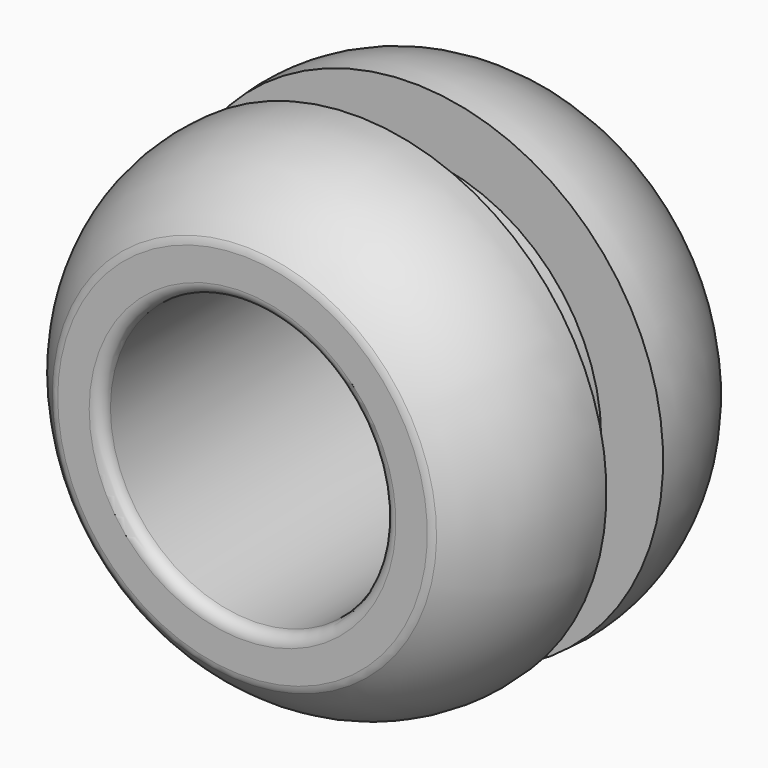
from build123d import *

# Parameters (mm, degrees)
F2_R     = 2.4
F3_DEPTH = 6
F4_R     = 0.2


with BuildPart() as f1:
    # F0 (on Top) → F1 (revolve)
    with BuildSketch(Plane.XY):
        with BuildLine():
            Line((0, 0), (0, 3))
            Line((0, 3), (-3.2, 3))
            ThreePointArc((-3.2, 3), (-4.0457283791, 1.9403186658), (-4.25, 0.6))
            Line((-4.25, 0.6), (-3.2, 0.6))
            Line((-3.2, 0.6), (-3.2, 0))
            Line((-3.2, 0), (0, 0))
        make_face()
        with BuildLine():
            Line((0, -3), (0, 0))
            Line((0, 0), (-3.2, 0))
            Line((-3.2, 0), (-3.2, -0.6))
            Line((-3.2, -0.6), (-4.25, -0.6))
            ThreePointArc((-4.25, -0.6), (-4.0457283791, -1.9403186658), (-3.2, -3))
            Line((-3.2, -3), (0, -3))
        make_face()
    revolve(axis=Axis((0, 0.3745369613, 0), (0, -1, 0)))

    # F2 (on face) → F3 (cut, through all)
    with BuildSketch(Plane(origin=(0, 3, 0), x_dir=(-1, 0, 0), z_dir=(0, 1, 0))):
        Circle(F2_R)
    extrude(amount=-F3_DEPTH, mode=Mode.SUBTRACT)

    # F4
    f4_edges = [f1.edges().sort_by_distance(p)[0] for p in [
        (2.4, 3, 0),
        (3.2, 3, 0),
        (2.4, -3, 0),
        (3.2, -3, 0),
    ]]
    fillet(f4_edges, radius=F4_R)


solid = f1.part
